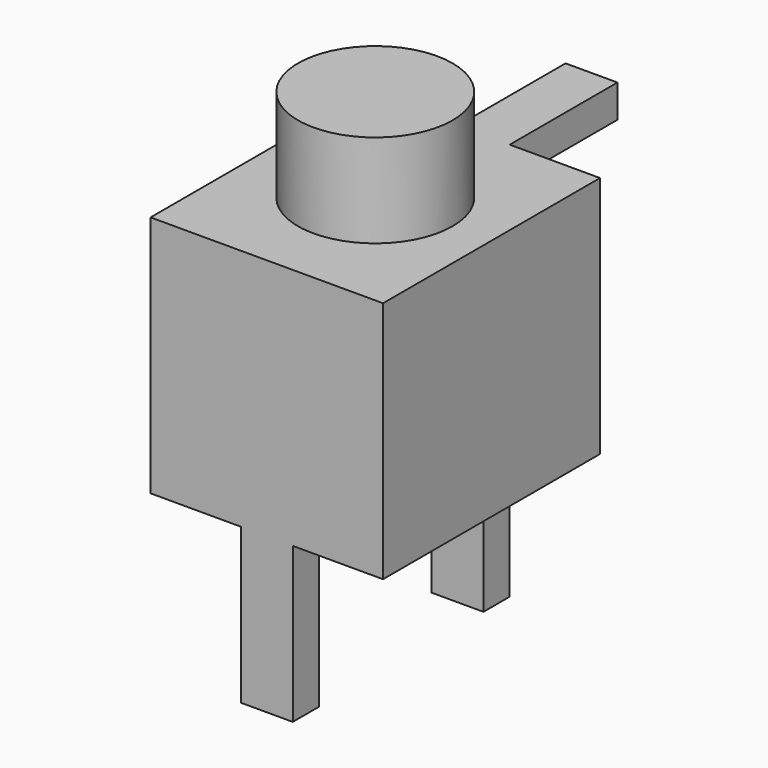
from build123d import *

# Parameters (mm, degrees)
F0_W     = 8.9916
F0_H     = 10.4902
F1_DEPTH = 9.398
F2_R     = 2.99
F3_DEPTH = 3.6068
F4_W     = 2.0066
F4_H     = 1.27
F5_DEPTH = 5.207
F6_W     = 2.0066
F6_H     = 1.27
F7_DEPTH = 5.9944


with BuildPart() as f1:
    # F0 (on Top) → F1 (new body)
    with BuildSketch(Plane.XY):
        Rectangle(F0_W, F0_H)
    extrude(amount=F1_DEPTH)

    # F2 (on face) → F3 (join)
    with BuildSketch(Plane.XY.offset(9.398)):
        Circle(F2_R)
    extrude(amount=F3_DEPTH)

    # F4 (on face) → F5 (join)
    with BuildSketch(Plane(origin=(0, 5.2451, 0), x_dir=(-1, 0, 0), z_dir=(0, 1, 0))):
        with Locations((0, 8.763)):
            Rectangle(F4_W, F4_H)
    extrude(amount=F5_DEPTH)

    # F6 (on face) → F7 (join)
    with BuildSketch(Plane(origin=(0, 0, 0), x_dir=(1, 0, 0), z_dir=(0, 0, -1))):
        with Locations((0, 4.6101)):
            Rectangle(F6_W, F6_H)
        with Locations((0, -4.6101)):
            Rectangle(F6_W, F6_H)
    extrude(amount=F7_DEPTH)


solid = f1.part
